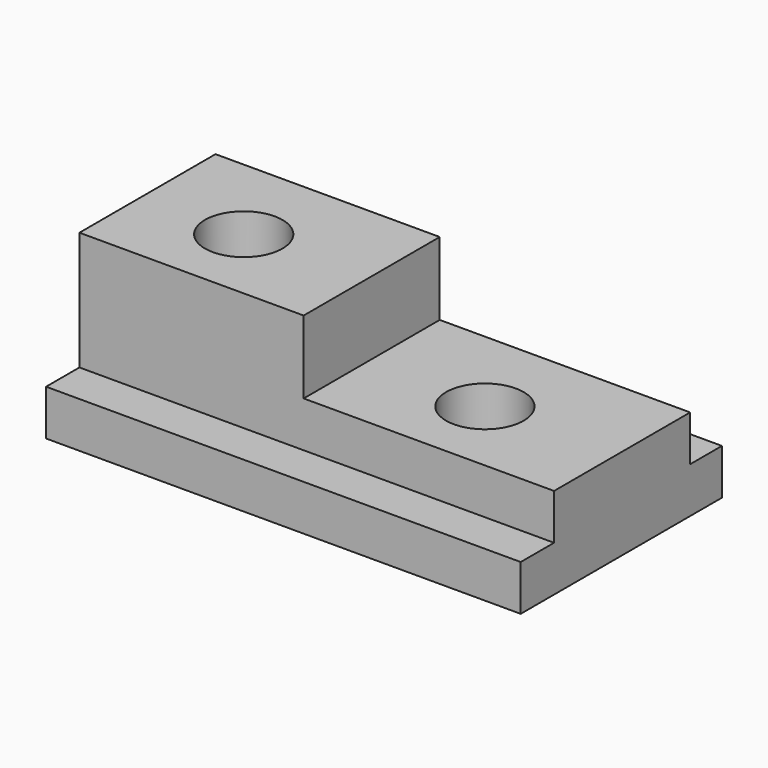
from build123d import *

# Parameters (mm, degrees)
F0_W     = 132.1095339954
F0_H     = 70.0087491423
F1_DEPTH = 25.4
F2_W     = 132.1095339954
F2_H     = 11.6047412157
F3_DEPTH = 12.7
F4_W     = 132.1095339954
F4_H     = 11.0577493906
F5_DEPTH = 12.7
F6_W     = 62.4120058492
F6_H     = 47.346258536
F7_DEPTH = 20.32
F10_D    = 21.59
F12_D    = 21.59


with BuildPart() as f1:
    # F0 (on Top) → F1 (new body)
    with BuildSketch(Plane.XY):
        with Locations((-6.8613234907, -4.3028621003)):
            Rectangle(F0_W, F0_H)
    extrude(amount=F1_DEPTH)

    # F2 (on face) → F3 (cut)
    with BuildSketch(Plane.XY.offset(25.4)):
        with Locations((-6.8613234907, -33.5048660636)):
            Rectangle(F2_W, F2_H)
    extrude(amount=-F3_DEPTH, mode=Mode.SUBTRACT)

    # F4 (on face) → F5 (cut)
    with BuildSketch(Plane.XY.offset(25.4)):
        with Locations((-6.8613234907, 25.1726377755)):
            Rectangle(F4_W, F4_H)
    extrude(amount=-F5_DEPTH, mode=Mode.SUBTRACT)

    # F6 (on face) → F7 (join)
    with BuildSketch(Plane.XY.offset(25.4)):
        with Locations((-41.7100875638, -4.0293661878)):
            Rectangle(F6_W, F6_H)
    extrude(amount=F7_DEPTH)

    # F10 (through all)
    with Locations(Plane.XY.offset(45.72)):
        with Locations((-44.5797219872, -5.9616966173)):
            Hole(F10_D / 2)

    # F12 (through all)
    with Locations(Plane.XY.offset(25.4)):
        with Locations((22.5894171745, -6.0134478845)):
            Hole(F12_D / 2)


solid = f1.part
